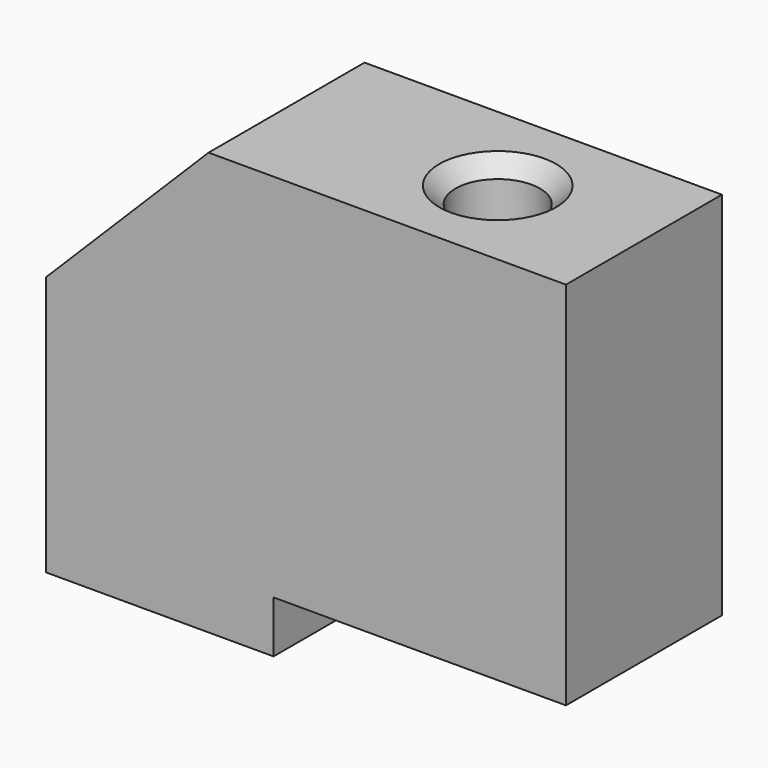
from build123d import *

# Parameters (mm, degrees)
PAD_DEPTH       = 3
SKETCH001_R     = 1.3
POCKET_DEPTH    = 11.4
SKETCH002_R     = 1.3
POCKET001_DEPTH = 9
CHAMFER_SIZE    = 0.5


with BuildPart() as part:
    # Sketch → Pad (new body, symmetric)
    with BuildSketch(Plane.XZ):
        Polygon((-8, 1.5), (-3, 6.5), (8, 6.5), (8, -4.9), (-1, -4.9), (-1, -6.5), (-8, -6.5), align=None)
    extrude(amount=PAD_DEPTH, both=True)

    # Sketch001 → Pocket (cut)
    with BuildSketch(Plane(origin=(0, 0, 6.5), x_dir=(-1, 0, 0), z_dir=(0, 0, 1))):
        with Locations((-3.5, 0)):
            Circle(SKETCH001_R)
    extrude(amount=-POCKET_DEPTH, mode=Mode.SUBTRACT)

    # Sketch002 → Pocket001 (cut)
    with BuildSketch(Plane(origin=(-8, 0, 0), x_dir=(0, 0, -1), z_dir=(-1, 0, 0))):
        with Locations((2.5, 0)):
            Circle(SKETCH002_R)
    extrude(amount=-POCKET001_DEPTH, mode=Mode.SUBTRACT)

    # Chamfer
    chamfer_edges = [part.edges().sort_by_distance(p)[0] for p in [
        (-8, 0, -1.2),
        (4.8, 0, 6.5),
        (4.8, 0, -4.9),
    ]]
    chamfer(chamfer_edges, length=CHAMFER_SIZE)


solid = part.part
